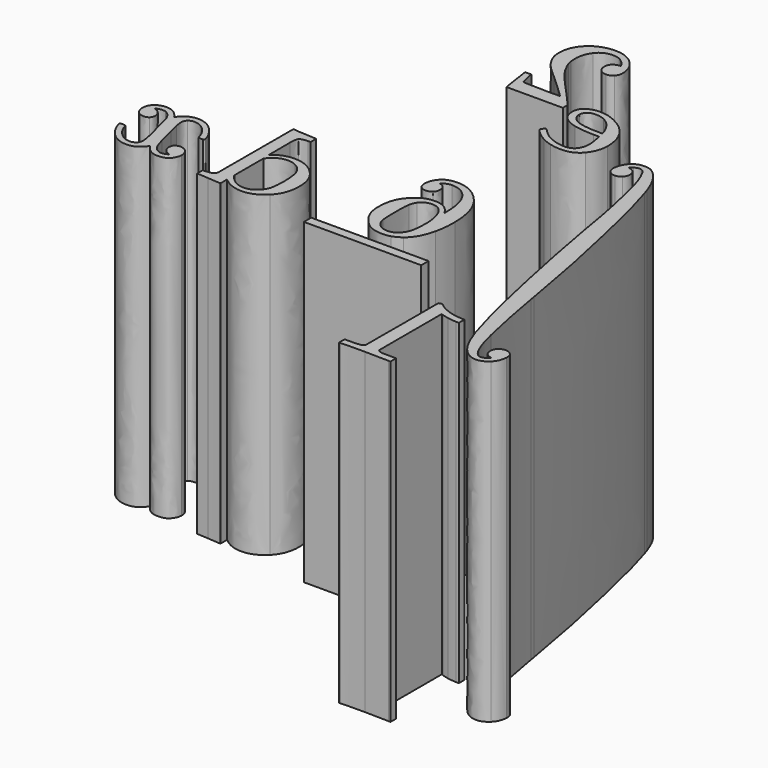
from build123d import *

# Parameters (mm, degrees)
PAD_DEPTH    = 10
PAD001_DEPTH = 10
PAD002_DEPTH = 10
PAD003_DEPTH = 10
PAD004_DEPTH = 10
PAD005_DEPTH = 10
PAD006_DEPTH = 10
PAD007_DEPTH = 10


with BuildPart() as body:
    # Sketch004 → Pad (new body)
    with BuildSketch(Plane.XY):
        with BuildLine():
            add(Edge.make_bspline(
                [(-7.669202, -3.05466), (-7.60695, -3.078603)],
                knots=[0, 0, 13.928388, 13.928388], degree=1))
            add(Edge.make_bspline(
                [(-7.60695, -3.078603), (-7.53991, -3.102546), (-7.415406, -3.126489)],
                knots=[0, 0, 0, 1, 1, 1], degree=2))
            add(Edge.make_bspline(
                [(-7.415406, -3.126489), (-7.290901, -3.150433), (-7.137666, -3.16001)],
                knots=[0, 0, 0, 1, 1, 1], degree=2))
            add(Edge.make_bspline(
                [(-7.137666, -3.16001), (-7.046682, -3.16001)],
                knots=[0, 0, 19, 19], degree=1))
            add(Edge.make_bspline(
                [(-7.046682, -3.16001), (-7.046682, -2.939733)],
                knots=[0, 0, 46, 46], degree=1))
            add(Edge.make_bspline(
                [(-7.046682, -2.939733), (-7.137666, -2.939733)],
                knots=[0, 0, 19, 19], degree=1))
            add(Edge.make_bspline(
                [(-7.137666, -2.939733), (-7.362731, -2.930156), (-7.554276, -2.867904)],
                knots=[0, 0, 0, 1, 1, 1], degree=2))
            add(Edge.make_bspline(
                [(-7.554276, -2.867904), (-7.74582, -2.805652), (-7.822438, -2.752977)],
                knots=[0, 0, 0, 1, 1, 1], degree=2))
            add(Edge.make_bspline(
                [(-7.822438, -2.752977), (-7.899056, -2.700302), (-7.95652, -2.647627)],
                knots=[0, 0, 0, 1, 1, 1], degree=2))
            add(Edge.make_bspline(
                [(-7.95652, -2.647627), (-7.966097, -2.633262), (-8.013983, -2.633262)],
                knots=[0, 0, 0, 1, 1, 1], degree=2))
            add(Edge.make_bspline(
                [(-8.013983, -2.633262), (-8.057081, -2.633262), (-8.09539, -2.661993)],
                knots=[0, 0, 0, 1, 1, 1], degree=2))
            add(Edge.make_bspline(
                [(-8.09539, -2.661993), (-8.09539, -4.093791)],
                knots=[0, 0, 299, 299], degree=1))
            add(Edge.make_bspline(
                [(-8.09539, -4.093791), (-8.100178, -5.530377)],
                knots=[0, 0, 300.001667, 300.001667], degree=1))
            add(Edge.make_bspline(
                [(-8.100178, -5.530377), (-8.133699, -5.563897), (-8.157642, -5.573474)],
                knots=[0, 0, 0, 1, 1, 1], degree=2))
            add(Edge.make_bspline(
                [(-8.157642, -5.573474), (-8.181585, -5.583052), (-8.272569, -5.592629)],
                knots=[0, 0, 0, 1, 1, 1], degree=2))
            add(Edge.make_bspline(
                [(-8.272569, -5.592629), (-8.363552, -5.602206), (-8.569463, -5.602206)],
                knots=[0, 0, 0, 1, 1, 1], degree=2))
            add(Edge.make_bspline(
                [(-8.569463, -5.602206), (-8.693967, -5.602206)],
                knots=[0, 0, 26, 26], degree=1))
            add(Edge.make_bspline(
                [(-8.693967, -5.602206), (-8.693967, -5.822483)],
                knots=[0, 0, 46, 46], degree=1))
            add(Edge.make_bspline(
                [(-8.693967, -5.822483), (-8.641292, -5.822483)],
                knots=[0, 0, 11, 11], degree=1))
            add(Edge.make_bspline(
                [(-8.641292, -5.822483), (-8.540731, -5.808117), (-7.879902, -5.808117)],
                knots=[0, 0, 0, 1, 1, 1], degree=2))
            add(Edge.make_bspline(
                [(-7.879902, -5.808117), (-7.128088, -5.822483)],
                knots=[0, 0, 157.02866, 157.02866], degree=1))
            add(Edge.make_bspline(
                [(-7.128088, -5.822483), (-7.070625, -5.822483)],
                knots=[0, 0, 12, 12], degree=1))
            add(Edge.make_bspline(
                [(-7.070625, -5.822483), (-7.070625, -5.602206)],
                knots=[0, 0, 46, 46], degree=1))
            add(Edge.make_bspline(
                [(-7.070625, -5.602206), (-7.195129, -5.602206)],
                knots=[0, 0, 26, 26], degree=1))
            add(Edge.make_bspline(
                [(-7.195129, -5.602206), (-7.300479, -5.602206), (-7.377097, -5.602206)],
                knots=[0, 0, 0, 1, 1, 1], degree=2))
            add(Edge.make_bspline(
                [(-7.377097, -5.602206), (-7.453714, -5.602206), (-7.496812, -5.597417)],
                knots=[0, 0, 0, 1, 1, 1], degree=2))
            add(Edge.make_bspline(
                [(-7.496812, -5.597417), (-7.53991, -5.592629), (-7.57343, -5.583052)],
                knots=[0, 0, 0, 1, 1, 1], degree=2))
            add(Edge.make_bspline(
                [(-7.57343, -5.583052), (-7.60695, -5.573474), (-7.611739, -5.573474)],
                knots=[0, 0, 0, 1, 1, 1], degree=2))
            add(Edge.make_bspline(
                [(-7.611739, -5.573474), (-7.616528, -5.573474), (-7.640471, -5.549531)],
                knots=[0, 0, 0, 1, 1, 1], degree=2))
            add(Edge.make_bspline(
                [(-7.640471, -5.549531), (-7.664414, -5.525588), (-7.669202, -5.530377)],
                knots=[0, 0, 0, 1, 1, 1], degree=2))
            add(Edge.make_bspline(
                [(-7.669202, -5.530377), (-7.669202, -3.05466)],
                knots=[0, 0, 517, 517], degree=1))
        make_face()
    extrude(amount=PAD_DEPTH)


with BuildPart() as body001:
    # Sketch003 → Pad001 (new body)
    with BuildSketch(Plane.XY):
        with BuildLine():
            add(Edge.make_bspline(
                [(-10.475758, 0.967625), (-10.475758, 1.74817), (-10.863636, 2.203089)],
                knots=[0, 0, 0, 1, 1, 1], degree=2))
            add(Edge.make_bspline(
                [(-10.863636, 2.203089), (-11.251515, 2.658008), (-11.725588, 2.658008)],
                knots=[0, 0, 0, 1, 1, 1], degree=2))
            add(Edge.make_bspline(
                [(-11.725588, 2.658008), (-12.056003, 2.658008), (-12.199662, 2.485618)],
                knots=[0, 0, 0, 1, 1, 1], degree=2))
            add(Edge.make_bspline(
                [(-12.199662, 2.485618), (-12.34332, 2.313227), (-12.34332, 2.102528)],
                knots=[0, 0, 0, 1, 1, 1], degree=2))
            add(Edge.make_bspline(
                [(-12.34332, 2.102528), (-12.34332, 1.982812), (-12.276279, 1.910983)],
                knots=[0, 0, 0, 1, 1, 1], degree=2))
            add(Edge.make_bspline(
                [(-12.276279, 1.910983), (-12.209239, 1.839154), (-12.089523, 1.839154)],
                knots=[0, 0, 0, 1, 1, 1], degree=2))
            add(Edge.make_bspline(
                [(-12.089523, 1.839154), (-11.979385, 1.839154), (-11.907556, 1.906194)],
                knots=[0, 0, 0, 1, 1, 1], degree=2))
            add(Edge.make_bspline(
                [(-11.907556, 1.906194), (-11.835726, 1.973235), (-11.835726, 2.092951)],
                knots=[0, 0, 0, 1, 1, 1], degree=2))
            add(Edge.make_bspline(
                [(-11.835726, 2.092951), (-11.835726, 2.30365), (-12.060792, 2.346748)],
                knots=[0, 0, 0, 1, 1, 1], degree=2))
            add(Edge.make_bspline(
                [(-12.060792, 2.346748), (-11.955442, 2.452097), (-11.763897, 2.466463)],
                knots=[0, 0, 0, 1, 1, 1], degree=2))
            add(Edge.make_bspline(
                [(-11.763897, 2.466463), (-11.423905, 2.466463), (-11.203629, 2.179146)],
                knots=[0, 0, 0, 1, 1, 1], degree=2))
            add(Edge.make_bspline(
                [(-11.203629, 2.179146), (-10.978563, 1.863097), (-10.978563, 1.211845)],
                knots=[0, 0, 0, 1, 1, 1], degree=2))
            add(Edge.make_bspline(
                [(-10.978563, 1.211845), (-10.983352, 1.19269)],
                knots=[0, 0, 4.123106, 4.123106], degree=1))
            add(Edge.make_bspline(
                [(-10.983352, 1.19269), (-11.007295, 1.221422), (-11.021661, 1.254942)],
                knots=[0, 0, 0, 1, 1, 1], degree=2))
            add(Edge.make_bspline(
                [(-11.021661, 1.254942), (-11.217994, 1.542259), (-11.534043, 1.542259)],
                knots=[0, 0, 0, 1, 1, 1], degree=2))
            add(Edge.make_bspline(
                [(-11.534043, 1.542259), (-11.553198, 1.542259)],
                knots=[0, 0, 4, 4], degree=1))
            add(Edge.make_bspline(
                [(-11.553198, 1.542259), (-11.773474, 1.542259), (-11.941076, 1.451276)],
                knots=[0, 0, 0, 1, 1, 1], degree=2))
            add(Edge.make_bspline(
                [(-11.941076, 1.451276), (-12.056003, 1.384235), (-12.17093, 1.259731)],
                knots=[0, 0, 0, 1, 1, 1], degree=2))
            add(Edge.make_bspline(
                [(-12.17093, 1.259731), (-12.285857, 1.135227), (-12.357686, 0.986779)],
                knots=[0, 0, 0, 1, 1, 1], degree=2))
            add(Edge.make_bspline(
                [(-12.357686, 0.986779), (-12.458247, 0.752137), (-12.458247, 0.474397)],
                knots=[0, 0, 0, 1, 1, 1], degree=2))
            add(Edge.make_bspline(
                [(-12.458247, 0.474397), (-12.458247, 0.388202)],
                knots=[0, 0, 18, 18], degree=1))
            add(Edge.make_bspline(
                [(-12.458247, 0.388202), (-12.458247, 0.278064), (-12.434304, 0.182291)],
                knots=[0, 0, 0, 1, 1, 1], degree=2))
            add(Edge.make_bspline(
                [(-12.434304, 0.182291), (-12.381629, -0.100237), (-12.127832, -0.3684)],
                knots=[0, 0, 0, 1, 1, 1], degree=2))
            add(Edge.make_bspline(
                [(-12.127832, -0.3684), (-11.874035, -0.636563), (-11.486157, -0.636563)],
                knots=[0, 0, 0, 1, 1, 1], degree=2))
            add(Edge.make_bspline(
                [(-11.486157, -0.636563), (-11.352076, -0.636563), (-11.227572, -0.598254)],
                knots=[0, 0, 0, 1, 1, 1], degree=2))
            add(Edge.make_bspline(
                [(-11.227572, -0.598254), (-11.103067, -0.559945), (-10.959409, -0.454595)],
                knots=[0, 0, 0, 1, 1, 1], degree=2))
            add(Edge.make_bspline(
                [(-10.959409, -0.454595), (-10.81575, -0.349246), (-10.715189, -0.172067)],
                knots=[0, 0, 0, 1, 1, 1], degree=2))
            add(Edge.make_bspline(
                [(-10.715189, -0.172067), (-10.614628, 0.005112), (-10.542799, 0.292429)],
                knots=[0, 0, 0, 1, 1, 1], degree=2))
            add(Edge.make_bspline(
                [(-10.542799, 0.292429), (-10.47097, 0.579747), (-10.475758, 0.967625)],
                knots=[0, 0, 0, 1, 1, 1], degree=2))
        make_face()
        with BuildLine():
            add(Edge.make_bspline(
                [(-11.505312, 1.369869), (-11.361653, 1.369869), (-11.256303, 1.288462)],
                knots=[0, 0, 0, 1, 1, 1], degree=2))
            add(Edge.make_bspline(
                [(-11.256303, 1.288462), (-11.150954, 1.207056), (-11.09349, 1.072975)],
                knots=[0, 0, 0, 1, 1, 1], degree=2))
            add(Edge.make_bspline(
                [(-11.09349, 1.072975), (-11.036027, 0.938893), (-11.012084, 0.800023)],
                knots=[0, 0, 0, 1, 1, 1], degree=2))
            add(Edge.make_bspline(
                [(-11.012084, 0.800023), (-10.988141, 0.661153), (-10.983352, 0.503129)],
                knots=[0, 0, 0, 1, 1, 1], degree=2))
            add(Edge.make_bspline(
                [(-10.983352, 0.503129), (-10.983352, 0.105673), (-11.040815, -0.066717)],
                knots=[0, 0, 0, 1, 1, 1], degree=2))
            add(Edge.make_bspline(
                [(-11.040815, -0.066717), (-11.098279, -0.239107), (-11.222783, -0.344457)],
                knots=[0, 0, 0, 1, 1, 1], degree=2))
            add(Edge.make_bspline(
                [(-11.222783, -0.344457), (-11.33771, -0.430652), (-11.47658, -0.430652)],
                knots=[0, 0, 0, 1, 1, 1], degree=2))
            add(Edge.make_bspline(
                [(-11.47658, -0.430652), (-11.7208, -0.430652), (-11.850092, -0.248685)],
                knots=[0, 0, 0, 1, 1, 1], degree=2))
            add(Edge.make_bspline(
                [(-11.850092, -0.248685), (-11.912344, -0.162489), (-11.936287, -0.033197)],
                knots=[0, 0, 0, 1, 1, 1], degree=2))
            add(Edge.make_bspline(
                [(-11.936287, -0.033197), (-11.960231, 0.096096), (-11.960231, 0.469608)],
                knots=[0, 0, 0, 1, 1, 1], degree=2))
            add(Edge.make_bspline(
                [(-11.960231, 0.469608), (-11.960231, 0.852698), (-11.936287, 0.981991)],
                knots=[0, 0, 0, 1, 1, 1], degree=2))
            add(Edge.make_bspline(
                [(-11.936287, 0.981991), (-11.912344, 1.111284), (-11.850092, 1.197479)],
                knots=[0, 0, 0, 1, 1, 1], degree=2))
            add(Edge.make_bspline(
                [(-11.850092, 1.197479), (-11.7208, 1.369869), (-11.505312, 1.369869)],
                knots=[0, 0, 0, 1, 1, 1], degree=2))
        make_face(mode=Mode.SUBTRACT)
    extrude(amount=PAD001_DEPTH)


with BuildPart() as body002:
    # Sketch005 → Pad002 (new body)
    with BuildSketch(Plane.XY):
        with BuildLine():
            add(Edge.make_bspline(
                [(-12.489519, 9.442082), (-12.360226, 9.442082), (-12.283609, 9.528277)],
                knots=[0, 0, 0, 1, 1, 1], degree=2))
            add(Edge.make_bspline(
                [(-12.283609, 9.528277), (-12.206991, 9.614472), (-12.206991, 9.738976)],
                knots=[0, 0, 0, 1, 1, 1], degree=2))
            add(Edge.make_bspline(
                [(-12.206991, 9.738976), (-12.206991, 10.078968), (-12.460787, 10.327977)],
                knots=[0, 0, 0, 1, 1, 1], degree=2))
            add(Edge.make_bspline(
                [(-12.460787, 10.327977), (-12.714584, 10.576985), (-13.092885, 10.576985)],
                knots=[0, 0, 0, 1, 1, 1], degree=2))
            add(Edge.make_bspline(
                [(-13.092885, 10.576985), (-13.52865, 10.576985), (-13.820756, 10.308822)],
                knots=[0, 0, 0, 1, 1, 1], degree=2))
            add(Edge.make_bspline(
                [(-13.820756, 10.308822), (-14.112861, 10.040659), (-14.11765, 9.614472)],
                knots=[0, 0, 0, 1, 1, 1], degree=2))
            add(Edge.make_bspline(
                [(-14.11765, 9.614472), (-14.11765, 9.408562), (-14.021878, 9.221805)],
                knots=[0, 0, 0, 1, 1, 1], degree=2))
            add(Edge.make_bspline(
                [(-14.021878, 9.221805), (-13.926105, 9.035049), (-13.792024, 8.896179)],
                knots=[0, 0, 0, 1, 1, 1], degree=2))
            add(Edge.make_bspline(
                [(-13.792024, 8.896179), (-13.657943, 8.757309), (-13.408934, 8.541821)],
                knots=[0, 0, 0, 1, 1, 1], degree=2))
            add(Edge.make_bspline(
                [(-13.408934, 8.541821), (-13.236544, 8.393374), (-12.930072, 8.101268)],
                knots=[0, 0, 0, 1, 1, 1], degree=2))
            add(Edge.make_bspline(
                [(-12.930072, 8.101268), (-12.647544, 7.833105)],
                knots=[0, 0, 81.344945, 81.344945], degree=1))
            add(Edge.make_bspline(
                [(-12.647544, 7.833105), (-13.011479, 7.828317)],
                knots=[0, 0, 76.006579, 76.006579], degree=1))
            add(Edge.make_bspline(
                [(-13.011479, 7.828317), (-13.763292, 7.828317), (-13.811178, 7.85226)],
                knots=[0, 0, 0, 1, 1, 1], degree=2))
            add(Edge.make_bspline(
                [(-13.811178, 7.85226), (-13.844699, 7.861837), (-13.926105, 8.278447)],
                knots=[0, 0, 0, 1, 1, 1], degree=2))
            add(Edge.make_bspline(
                [(-13.926105, 8.278447), (-13.926105, 8.292813)],
                knots=[0, 0, 3, 3], degree=1))
            add(Edge.make_bspline(
                [(-13.926105, 8.292813), (-14.11765, 8.292813)],
                knots=[0, 0, 40, 40], degree=1))
            add(Edge.make_bspline(
                [(-14.11765, 8.292813), (-14.11765, 8.278447)],
                knots=[0, 0, 3, 3], degree=1))
            add(Edge.make_bspline(
                [(-14.11765, 8.278447), (-14.112861, 8.264081), (-14.055398, 7.842683)],
                knots=[0, 0, 0, 1, 1, 1], degree=2))
            add(Edge.make_bspline(
                [(-14.055398, 7.842683), (-13.997935, 7.421284), (-13.983569, 7.40213)],
                knots=[0, 0, 0, 1, 1, 1], degree=2))
            add(Edge.make_bspline(
                [(-13.983569, 7.40213), (-13.983569, 7.387764)],
                knots=[0, 0, 3, 3], degree=1))
            add(Edge.make_bspline(
                [(-13.983569, 7.387764), (-12.206991, 7.387764)],
                knots=[0, 0, 371, 371], degree=1))
            add(Edge.make_bspline(
                [(-12.206991, 7.387764), (-12.206991, 7.478748)],
                knots=[0, 0, 19, 19], degree=1))
            add(Edge.make_bspline(
                [(-12.206991, 7.478748), (-12.206991, 7.536211)],
                knots=[0, 0, 12, 12], degree=1))
            add(Edge.make_bspline(
                [(-12.206991, 7.536211), (-12.206991, 7.569731), (-12.235722, 7.60804)],
                knots=[0, 0, 0, 1, 1, 1], degree=2))
            add(Edge.make_bspline(
                [(-12.235722, 7.60804), (-12.264454, 7.646349), (-12.379381, 7.775642)],
                knots=[0, 0, 0, 1, 1, 1], degree=2))
            add(Edge.make_bspline(
                [(-12.379381, 7.775642), (-12.518251, 7.928878), (-12.618812, 8.043805)],
                knots=[0, 0, 0, 1, 1, 1], degree=2))
            add(Edge.make_bspline(
                [(-12.618812, 8.043805), (-12.66191, 8.091691), (-12.781625, 8.220984)],
                knots=[0, 0, 0, 1, 1, 1], degree=2))
            add(Edge.make_bspline(
                [(-12.781625, 8.220984), (-12.901341, 8.350276), (-12.944438, 8.398163)],
                knots=[0, 0, 0, 1, 1, 1], degree=2))
            add(Edge.make_bspline(
                [(-12.944438, 8.398163), (-12.987536, 8.446049), (-13.083308, 8.556187)],
                knots=[0, 0, 0, 1, 1, 1], degree=2))
            add(Edge.make_bspline(
                [(-13.083308, 8.556187), (-13.179081, 8.666325), (-13.217389, 8.719)],
                knots=[0, 0, 0, 1, 1, 1], degree=2))
            add(Edge.make_bspline(
                [(-13.217389, 8.719), (-13.255698, 8.771675), (-13.327528, 8.862659)],
                knots=[0, 0, 0, 1, 1, 1], degree=2))
            add(Edge.make_bspline(
                [(-13.327528, 8.862659), (-13.399357, 8.953643), (-13.428089, 9.015895)],
                knots=[0, 0, 0, 1, 1, 1], degree=2))
            add(Edge.make_bspline(
                [(-13.428089, 9.015895), (-13.45682, 9.078147), (-13.499918, 9.154765)],
                knots=[0, 0, 0, 1, 1, 1], degree=2))
            add(Edge.make_bspline(
                [(-13.499918, 9.154765), (-13.543016, 9.231383), (-13.56217, 9.308)],
                knots=[0, 0, 0, 1, 1, 1], degree=2))
            add(Edge.make_bspline(
                [(-13.56217, 9.308), (-13.581325, 9.384618), (-13.59569, 9.451659)],
                knots=[0, 0, 0, 1, 1, 1], degree=2))
            add(Edge.make_bspline(
                [(-13.59569, 9.451659), (-13.610056, 9.5187), (-13.610056, 9.609684)],
                knots=[0, 0, 0, 1, 1, 1], degree=2))
            add(Edge.make_bspline(
                [(-13.610056, 9.609684), (-13.610056, 9.911367), (-13.447243, 10.131643)],
                knots=[0, 0, 0, 1, 1, 1], degree=2))
            add(Edge.make_bspline(
                [(-13.447243, 10.131643), (-13.28443, 10.35192), (-12.982747, 10.35192)],
                knots=[0, 0, 0, 1, 1, 1], degree=2))
            add(Edge.make_bspline(
                [(-12.982747, 10.35192), (-12.824723, 10.35192), (-12.705007, 10.270513)],
                knots=[0, 0, 0, 1, 1, 1], degree=2))
            add(Edge.make_bspline(
                [(-12.705007, 10.270513), (-12.585292, 10.189107), (-12.537405, 10.112489)],
                knots=[0, 0, 0, 1, 1, 1], degree=2))
            add(Edge.make_bspline(
                [(-12.537405, 10.112489), (-12.489519, 10.035871), (-12.489519, 10.021505)],
                knots=[0, 0, 0, 1, 1, 1], degree=2))
            add(Edge.make_bspline(
                [(-12.489519, 10.021505), (-12.489519, 10.016716), (-12.513462, 10.016716)],
                knots=[0, 0, 0, 1, 1, 1], degree=2))
            add(Edge.make_bspline(
                [(-12.513462, 10.016716), (-12.599657, 10.016716), (-12.690641, 9.949676)],
                knots=[0, 0, 0, 1, 1, 1], degree=2))
            add(Edge.make_bspline(
                [(-12.690641, 9.949676), (-12.781625, 9.882635), (-12.781625, 9.729399)],
                knots=[0, 0, 0, 1, 1, 1], degree=2))
            add(Edge.make_bspline(
                [(-12.781625, 9.729399), (-12.781625, 9.609684), (-12.705007, 9.528277)],
                knots=[0, 0, 0, 1, 1, 1], degree=2))
            add(Edge.make_bspline(
                [(-12.705007, 9.528277), (-12.628389, 9.44687), (-12.489519, 9.442082)],
                knots=[0, 0, 0, 1, 1, 1], degree=2))
        make_face()
    extrude(amount=PAD002_DEPTH)


with BuildPart() as body003:
    # Sketch002 → Pad003 (new body)
    with BuildSketch(Plane.XY):
        with BuildLine():
            add(Edge.make_bspline(
                [(-9.687858, -1.053496), (-13.384672, -1.053496)],
                knots=[0, 0, 772, 772], degree=1))
            add(Edge.make_bspline(
                [(-13.384672, -1.053496), (-13.384672, -1.340814)],
                knots=[0, 0, 60, 60], degree=1))
            add(Edge.make_bspline(
                [(-13.384672, -1.340814), (-9.687858, -1.340814)],
                knots=[0, 0, 772, 772], degree=1))
            add(Edge.make_bspline(
                [(-9.687858, -1.340814), (-9.687858, -1.053496)],
                knots=[0, 0, 60, 60], degree=1))
        make_face()
    extrude(amount=PAD003_DEPTH)


with BuildPart() as body004:
    # Sketch → Pad004 (new body)
    with BuildSketch(Plane.XY):
        with BuildLine():
            add(Edge.make_bspline(
                [(-10.068999, 6.482865), (-10.068999, 6.755816), (-10.159983, 6.980881)],
                knots=[0, 0, 0, 1, 1, 1], degree=2))
            add(Edge.make_bspline(
                [(-10.159983, 6.980881), (-10.250967, 7.205946), (-10.394626, 7.354393)],
                knots=[0, 0, 0, 1, 1, 1], degree=2))
            add(Edge.make_bspline(
                [(-10.394626, 7.354393), (-10.538284, 7.502841), (-10.715463, 7.603402)],
                knots=[0, 0, 0, 1, 1, 1], degree=2))
            add(Edge.make_bspline(
                [(-10.715463, 7.603402), (-10.892642, 7.703963), (-11.050667, 7.751849)],
                knots=[0, 0, 0, 1, 1, 1], degree=2))
            add(Edge.make_bspline(
                [(-11.050667, 7.751849), (-11.208691, 7.799735), (-11.35235, 7.794946)],
                knots=[0, 0, 0, 1, 1, 1], degree=2))
            add(Edge.make_bspline(
                [(-11.35235, 7.794946), (-11.366716, 7.794946)],
                knots=[0, 0, 3, 3], degree=1))
            add(Edge.make_bspline(
                [(-11.366716, 7.794946), (-11.582203, 7.794946), (-11.740228, 7.689597)],
                knots=[0, 0, 0, 1, 1, 1], degree=2))
            add(Edge.make_bspline(
                [(-11.740228, 7.689597), (-11.898252, 7.584247), (-11.898252, 7.378336)],
                knots=[0, 0, 0, 1, 1, 1], degree=2))
            add(Edge.make_bspline(
                [(-11.898252, 7.378336), (-11.898252, 6.947361), (-11.366716, 6.813279)],
                knots=[0, 0, 0, 1, 1, 1], degree=2))
            add(Edge.make_bspline(
                [(-11.366716, 6.813279), (-11.132073, 6.751027), (-10.72504, 6.746239)],
                knots=[0, 0, 0, 1, 1, 1], degree=2))
            add(Edge.make_bspline(
                [(-10.72504, 6.746239), (-10.547861, 6.746239), (-10.543073, 6.736661)],
                knots=[0, 0, 0, 1, 1, 1], degree=2))
            add(Edge.make_bspline(
                [(-10.543073, 6.736661), (-10.543073, 6.727084), (-10.514341, 6.56906)],
                knots=[0, 0, 0, 1, 1, 1], degree=2))
            add(Edge.make_bspline(
                [(-10.514341, 6.56906), (-10.485609, 6.411035), (-10.480821, 6.29132)],
                knots=[0, 0, 0, 1, 1, 1], degree=2))
            add(Edge.make_bspline(
                [(-10.480821, 6.29132), (-10.480821, 6.066255), (-10.581382, 5.936962)],
                knots=[0, 0, 0, 1, 1, 1], degree=2))
            add(Edge.make_bspline(
                [(-10.581382, 5.936962), (-10.681943, 5.807669), (-10.883065, 5.80288)],
                knots=[0, 0, 0, 1, 1, 1], degree=2))
            add(Edge.make_bspline(
                [(-10.883065, 5.80288), (-11.084187, 5.798092), (-11.328407, 5.893864)],
                knots=[0, 0, 0, 1, 1, 1], degree=2))
            add(Edge.make_bspline(
                [(-11.328407, 5.893864), (-11.572626, 5.989637), (-11.76896, 6.209913)],
                knots=[0, 0, 0, 1, 1, 1], degree=2))
            add(Edge.make_bspline(
                [(-11.76896, 6.209913), (-11.812057, 6.257799), (-11.826423, 6.257799)],
                knots=[0, 0, 0, 1, 1, 1], degree=2))
            add(Edge.make_bspline(
                [(-11.826423, 6.257799), (-11.845578, 6.257799), (-11.888675, 6.214702)],
                knots=[0, 0, 0, 1, 1, 1], degree=2))
            add(Edge.make_bspline(
                [(-11.888675, 6.214702), (-11.931773, 6.171604), (-11.936561, 6.147661)],
                knots=[0, 0, 0, 1, 1, 1], degree=2))
            add(Edge.make_bspline(
                [(-11.936561, 6.147661), (-11.94135, 6.123718), (-11.893464, 6.071043)],
                knots=[0, 0, 0, 1, 1, 1], degree=2))
            add(Edge.make_bspline(
                [(-11.893464, 6.071043), (-11.845578, 6.018368), (-11.749805, 5.94175)],
                knots=[0, 0, 0, 1, 1, 1], degree=2))
            add(Edge.make_bspline(
                [(-11.749805, 5.94175), (-11.654033, 5.865133), (-11.529529, 5.793303)],
                knots=[0, 0, 0, 1, 1, 1], degree=2))
            add(Edge.make_bspline(
                [(-11.529529, 5.793303), (-11.405025, 5.721474), (-11.227846, 5.673588)],
                knots=[0, 0, 0, 1, 1, 1], degree=2))
            add(Edge.make_bspline(
                [(-11.227846, 5.673588), (-11.050667, 5.625701), (-10.86391, 5.625701)],
                knots=[0, 0, 0, 1, 1, 1], degree=2))
            add(Edge.make_bspline(
                [(-10.86391, 5.625701), (-10.485609, 5.625701), (-10.279699, 5.879498)],
                knots=[0, 0, 0, 1, 1, 1], degree=2))
            add(Edge.make_bspline(
                [(-10.279699, 5.879498), (-10.073788, 6.133295), (-10.068999, 6.482865)],
                knots=[0, 0, 0, 1, 1, 1], degree=2))
        make_face()
        with BuildLine():
            add(Edge.make_bspline(
                [(-11.668399, 7.368759), (-11.639667, 7.617768), (-11.342772, 7.617768)],
                knots=[0, 0, 0, 1, 1, 1], degree=2))
            add(Edge.make_bspline(
                [(-11.342772, 7.617768), (-11.184748, 7.617768), (-11.050667, 7.550727)],
                knots=[0, 0, 0, 1, 1, 1], degree=2))
            add(Edge.make_bspline(
                [(-11.050667, 7.550727), (-10.916585, 7.483686), (-10.835179, 7.387914)],
                knots=[0, 0, 0, 1, 1, 1], degree=2))
            add(Edge.make_bspline(
                [(-10.835179, 7.387914), (-10.753772, 7.292141), (-10.696309, 7.19158)],
                knots=[0, 0, 0, 1, 1, 1], degree=2))
            add(Edge.make_bspline(
                [(-10.696309, 7.19158), (-10.638845, 7.091019), (-10.619691, 7.01919)],
                knots=[0, 0, 0, 1, 1, 1], degree=2))
            add(Edge.make_bspline(
                [(-10.619691, 7.01919), (-10.600536, 6.947361), (-10.595748, 6.928206)],
                knots=[0, 0, 0, 1, 1, 1], degree=2))
            add(Edge.make_bspline(
                [(-10.595748, 6.928206), (-10.595748, 6.923418), (-10.69152, 6.923418)],
                knots=[0, 0, 0, 1, 1, 1], degree=2))
            add(Edge.make_bspline(
                [(-10.69152, 6.923418), (-11.232634, 6.923418), (-11.448122, 7.038344)],
                knots=[0, 0, 0, 1, 1, 1], degree=2))
            add(Edge.make_bspline(
                [(-11.448122, 7.038344), (-11.66361, 7.153271), (-11.668399, 7.368759)],
                knots=[0, 0, 0, 1, 1, 1], degree=2))
        make_face(mode=Mode.SUBTRACT)
    extrude(amount=PAD004_DEPTH)


with BuildPart() as body005:
    # Sketch001 → Pad005 (new body)
    with BuildSketch(Plane.XY):
        with BuildLine():
            add(Edge.make_bspline(
                [(-16.288486, 1.404616), (-16.288486, 1.481234), (-16.288486, 1.59616)],
                knots=[0, 0, 0, 1, 1, 1], degree=2))
            add(Edge.make_bspline(
                [(-16.288486, 1.59616), (-16.288486, 1.711087), (-16.293274, 1.754185)],
                knots=[0, 0, 0, 1, 1, 1], degree=2))
            add(Edge.make_bspline(
                [(-16.293274, 1.754185), (-16.293274, 1.969673), (-16.245388, 2.022348)],
                knots=[0, 0, 0, 1, 1, 1], degree=2))
            add(Edge.make_bspline(
                [(-16.245388, 2.022348), (-16.197502, 2.075022), (-16.001169, 2.0846)],
                knots=[0, 0, 0, 1, 1, 1], degree=2))
            add(Edge.make_bspline(
                [(-16.001169, 2.0846), (-15.914974, 2.0846)],
                knots=[0, 0, 18, 18], degree=1))
            add(Edge.make_bspline(
                [(-15.914974, 2.0846), (-15.914974, 2.194738)],
                knots=[0, 0, 23, 23], degree=1))
            add(Edge.make_bspline(
                [(-15.914974, 2.194738), (-15.914974, 2.304876), (-15.924551, 2.304876)],
                knots=[0, 0, 0, 1, 1, 1], degree=2))
            add(Edge.make_bspline(
                [(-15.924551, 2.304876), (-15.972437, 2.309665)],
                knots=[0, 0, 10.049876, 10.049876], degree=1))
            add(Edge.make_bspline(
                [(-15.972437, 2.309665), (-16.020323, 2.314453), (-16.111307, 2.319242)],
                knots=[0, 0, 0, 1, 1, 1], degree=2))
            add(Edge.make_bspline(
                [(-16.111307, 2.319242), (-16.202291, 2.324031), (-16.288486, 2.328819)],
                knots=[0, 0, 0, 1, 1, 1], degree=2))
            add(Edge.make_bspline(
                [(-16.288486, 2.328819), (-16.369892, 2.333608), (-16.465665, 2.338397)],
                knots=[0, 0, 0, 1, 1, 1], degree=2))
            add(Edge.make_bspline(
                [(-16.465665, 2.338397), (-16.561437, 2.343185), (-16.609323, 2.352762)],
                knots=[0, 0, 0, 1, 1, 1], degree=2))
            add(Edge.make_bspline(
                [(-16.609323, 2.352762), (-16.65721, 2.36234), (-16.661998, 2.357551)],
                knots=[0, 0, 0, 1, 1, 1], degree=2))
            add(Edge.make_bspline(
                [(-16.661998, 2.357551), (-16.676364, 2.357551)],
                knots=[0, 0, 3, 3], degree=1))
            add(Edge.make_bspline(
                [(-16.676364, 2.357551), (-16.676364, 0.901811)],
                knots=[0, 0, 304, 304], degree=1))
            add(Edge.make_bspline(
                [(-16.676364, 0.901811), (-16.676364, -0.563507), (-16.681153, -0.577873)],
                knots=[0, 0, 0, 1, 1, 1], degree=2))
            add(Edge.make_bspline(
                [(-16.681153, -0.577873), (-16.695519, -0.673646), (-16.748193, -0.702377)],
                knots=[0, 0, 0, 1, 1, 1], degree=2))
            add(Edge.make_bspline(
                [(-16.748193, -0.702377), (-16.800868, -0.731109), (-16.963681, -0.745475)],
                knots=[0, 0, 0, 1, 1, 1], degree=2))
            add(Edge.make_bspline(
                [(-16.963681, -0.745475), (-17.049876, -0.745475)],
                knots=[0, 0, 18, 18], degree=1))
            add(Edge.make_bspline(
                [(-17.049876, -0.745475), (-17.049876, -0.965751)],
                knots=[0, 0, 46, 46], degree=1))
            add(Edge.make_bspline(
                [(-17.049876, -0.965751), (-17.040299, -0.965751), (-16.685941, -0.989694)],
                knots=[0, 0, 0, 1, 1, 1], degree=2))
            add(Edge.make_bspline(
                [(-16.685941, -0.989694), (-16.331583, -1.013638), (-16.30764, -1.018426)],
                knots=[0, 0, 0, 1, 1, 1], degree=2))
            add(Edge.make_bspline(
                [(-16.30764, -1.018426), (-16.27412, -1.018426)],
                knots=[0, 0, 7, 7], degree=1))
            add(Edge.make_bspline(
                [(-16.27412, -1.018426), (-16.27412, -0.755052)],
                knots=[0, 0, 55, 55], degree=1))
            add(Edge.make_bspline(
                [(-16.27412, -0.755052), (-16.235811, -0.788572)],
                knots=[0, 0, 10.630146, 10.630146], degree=1))
            add(Edge.make_bspline(
                [(-16.235811, -0.788572), (-15.958071, -1.018426), (-15.61329, -1.018426)],
                knots=[0, 0, 0, 1, 1, 1], degree=2))
            add(Edge.make_bspline(
                [(-15.61329, -1.018426), (-15.244567, -1.018426), (-14.947672, -0.72632)],
                knots=[0, 0, 0, 1, 1, 1], degree=2))
            add(Edge.make_bspline(
                [(-14.947672, -0.72632), (-14.650778, -0.434215), (-14.650778, 0.063802)],
                knots=[0, 0, 0, 1, 1, 1], degree=2))
            add(Edge.make_bspline(
                [(-14.650778, 0.063802), (-14.650778, 0.542664), (-14.952461, 0.844347)],
                knots=[0, 0, 0, 1, 1, 1], degree=2))
            add(Edge.make_bspline(
                [(-14.952461, 0.844347), (-15.254144, 1.14603), (-15.656388, 1.150819)],
                knots=[0, 0, 0, 1, 1, 1], degree=2))
            add(Edge.make_bspline(
                [(-15.656388, 1.150819), (-16.015535, 1.150819), (-16.288486, 0.916176)],
                knots=[0, 0, 0, 1, 1, 1], degree=2))
            add(Edge.make_bspline(
                [(-16.288486, 0.916176), (-16.288486, 1.404616)],
                knots=[0, 0, 102, 102], degree=1))
        make_face()
        with BuildLine():
            add(Edge.make_bspline(
                [(-16.27412, 0.671957), (-16.058632, 0.97364), (-15.733006, 0.97364)],
                knots=[0, 0, 0, 1, 1, 1], degree=2))
            add(Edge.make_bspline(
                [(-15.733006, 0.97364), (-15.498364, 0.97364), (-15.316396, 0.801249)],
                knots=[0, 0, 0, 1, 1, 1], degree=2))
            add(Edge.make_bspline(
                [(-15.316396, 0.801249), (-15.187103, 0.667168), (-15.153583, 0.494778)],
                knots=[0, 0, 0, 1, 1, 1], degree=2))
            add(Edge.make_bspline(
                [(-15.153583, 0.494778), (-15.120063, 0.322387), (-15.115274, 0.044648)],
                knots=[0, 0, 0, 1, 1, 1], degree=2))
            add(Edge.make_bspline(
                [(-15.115274, 0.044648), (-15.115274, -0.223515), (-15.148794, -0.391117)],
                knots=[0, 0, 0, 1, 1, 1], degree=2))
            add(Edge.make_bspline(
                [(-15.148794, -0.391117), (-15.182315, -0.558719), (-15.316396, -0.683223)],
                knots=[0, 0, 0, 1, 1, 1], degree=2))
            add(Edge.make_bspline(
                [(-15.316396, -0.683223), (-15.460055, -0.841247), (-15.689908, -0.841247)],
                knots=[0, 0, 0, 1, 1, 1], degree=2))
            add(Edge.make_bspline(
                [(-15.689908, -0.841247), (-16.0299, -0.841247), (-16.27412, -0.472523)],
                knots=[0, 0, 0, 1, 1, 1], degree=2))
            add(Edge.make_bspline(
                [(-16.27412, -0.472523), (-16.27412, 0.671957)],
                knots=[0, 0, 239, 239], degree=1))
        make_face(mode=Mode.SUBTRACT)
    extrude(amount=PAD005_DEPTH)


with BuildPart() as body006:
    # Sketch006 → Pad006 (new body)
    with BuildSketch(Plane.XY):
        with BuildLine():
            add(Edge.make_bspline(
                [(-18.03812, 0.592519), (-18.07164, 0.793641), (-18.296705, 1.057015)],
                knots=[0, 0, 0, 1, 1, 1], degree=2))
            add(Edge.make_bspline(
                [(-18.296705, 1.057015), (-18.521771, 1.320389), (-18.852185, 1.325178)],
                knots=[0, 0, 0, 1, 1, 1], degree=2))
            add(Edge.make_bspline(
                [(-18.852185, 1.325178), (-19.019787, 1.325178), (-19.158657, 1.238983)],
                knots=[0, 0, 0, 1, 1, 1], degree=2))
            add(Edge.make_bspline(
                [(-19.158657, 1.238983), (-19.297527, 1.152788), (-19.364568, 1.023495)],
                knots=[0, 0, 0, 1, 1, 1], degree=2))
            add(Edge.make_bspline(
                [(-19.364568, 1.023495), (-19.56569, 1.325178), (-19.848218, 1.325178)],
                knots=[0, 0, 0, 1, 1, 1], degree=2))
            add(Edge.make_bspline(
                [(-19.848218, 1.325178), (-20.025397, 1.325178), (-20.15469, 1.219828)],
                knots=[0, 0, 0, 1, 1, 1], degree=2))
            add(Edge.make_bspline(
                [(-20.15469, 1.219828), (-20.283983, 1.114479), (-20.288771, 0.9373)],
                knots=[0, 0, 0, 1, 1, 1], degree=2))
            add(Edge.make_bspline(
                [(-20.288771, 0.9373), (-20.288771, 0.79843), (-20.221731, 0.712235)],
                knots=[0, 0, 0, 1, 1, 1], degree=2))
            add(Edge.make_bspline(
                [(-20.221731, 0.712235), (-20.15469, 0.626039), (-20.092438, 0.606885)],
                knots=[0, 0, 0, 1, 1, 1], degree=2))
            add(Edge.make_bspline(
                [(-20.092438, 0.606885), (-20.030186, 0.58773), (-19.9823, 0.58773)],
                knots=[0, 0, 0, 1, 1, 1], degree=2))
            add(Edge.make_bspline(
                [(-19.9823, 0.58773), (-19.891316, 0.58773), (-19.833853, 0.640405)],
                knots=[0, 0, 0, 1, 1, 1], degree=2))
            add(Edge.make_bspline(
                [(-19.833853, 0.640405), (-19.776389, 0.69308), (-19.776389, 0.779275)],
                knots=[0, 0, 0, 1, 1, 1], degree=2))
            add(Edge.make_bspline(
                [(-19.776389, 0.779275), (-19.776389, 0.999552), (-20.01582, 1.080958)],
                knots=[0, 0, 0, 1, 1, 1], degree=2))
            add(Edge.make_bspline(
                [(-20.01582, 1.080958), (-19.963145, 1.14321), (-19.824275, 1.14321)],
                knots=[0, 0, 0, 1, 1, 1], degree=2))
            add(Edge.make_bspline(
                [(-19.824275, 1.14321), (-19.762023, 1.14321), (-19.733292, 1.133633)],
                knots=[0, 0, 0, 1, 1, 1], degree=2))
            add(Edge.make_bspline(
                [(-19.733292, 1.133633), (-19.551324, 1.057015), (-19.465129, 0.817584)],
                knots=[0, 0, 0, 1, 1, 1], degree=2))
            add(Edge.make_bspline(
                [(-19.465129, 0.817584), (-19.177812, -0.240701), (-19.177812, -0.41788)],
                knots=[0, 0, 0, 1, 1, 1], degree=2))
            add(Edge.make_bspline(
                [(-19.177812, -0.41788), (-19.177812, -0.551961), (-19.25443, -0.609425)],
                knots=[0, 0, 0, 1, 1, 1], degree=2))
            add(Edge.make_bspline(
                [(-19.25443, -0.609425), (-19.331047, -0.666888), (-19.422031, -0.666888)],
                knots=[0, 0, 0, 1, 1, 1], degree=2))
            add(Edge.make_bspline(
                [(-19.422031, -0.666888), (-19.59921, -0.666888), (-19.771601, -0.508864)],
                knots=[0, 0, 0, 1, 1, 1], degree=2))
            add(Edge.make_bspline(
                [(-19.771601, -0.508864), (-19.943991, -0.350839), (-20.006243, -0.120985)],
                knots=[0, 0, 0, 1, 1, 1], degree=2))
            add(Edge.make_bspline(
                [(-20.006243, -0.120985), (-20.020609, -0.073099), (-20.034975, -0.068311)],
                knots=[0, 0, 0, 1, 1, 1], degree=2))
            add(Edge.make_bspline(
                [(-20.034975, -0.068311), (-20.04934, -0.063522), (-20.111593, -0.058733)],
                knots=[0, 0, 0, 1, 1, 1], degree=2))
            add(Edge.make_bspline(
                [(-20.111593, -0.058733), (-20.130747, -0.058733)],
                knots=[0, 0, 4, 4], degree=1))
            add(Edge.make_bspline(
                [(-20.130747, -0.058733), (-20.202576, -0.058733), (-20.202576, -0.097042)],
                knots=[0, 0, 0, 1, 1, 1], degree=2))
            add(Edge.make_bspline(
                [(-20.202576, -0.097042), (-20.202576, -0.101831), (-20.192999, -0.149717)],
                knots=[0, 0, 0, 1, 1, 1], degree=2))
            add(Edge.make_bspline(
                [(-20.192999, -0.149717), (-20.116381, -0.422668), (-19.896105, -0.633368)],
                knots=[0, 0, 0, 1, 1, 1], degree=2))
            add(Edge.make_bspline(
                [(-19.896105, -0.633368), (-19.675828, -0.844067), (-19.383722, -0.844067)],
                knots=[0, 0, 0, 1, 1, 1], degree=2))
            add(Edge.make_bspline(
                [(-19.383722, -0.844067), (-19.048519, -0.844067), (-18.876129, -0.542384)],
                knots=[0, 0, 0, 1, 1, 1], degree=2))
            add(Edge.make_bspline(
                [(-18.876129, -0.542384), (-18.679795, -0.839278), (-18.425998, -0.839278)],
                knots=[0, 0, 0, 1, 1, 1], degree=2))
            add(Edge.make_bspline(
                [(-18.425998, -0.839278), (-18.397267, -0.839278)],
                knots=[0, 0, 6, 6], degree=1))
            add(Edge.make_bspline(
                [(-18.397267, -0.839278), (-18.162624, -0.839278), (-18.062063, -0.714774)],
                knots=[0, 0, 0, 1, 1, 1], degree=2))
            add(Edge.make_bspline(
                [(-18.062063, -0.714774), (-17.961502, -0.59027), (-17.956713, -0.4514)],
                knots=[0, 0, 0, 1, 1, 1], degree=2))
            add(Edge.make_bspline(
                [(-17.956713, -0.4514), (-17.956713, -0.298164), (-18.047697, -0.202392)],
                knots=[0, 0, 0, 1, 1, 1], degree=2))
            add(Edge.make_bspline(
                [(-18.047697, -0.202392), (-18.138681, -0.106619), (-18.263185, -0.106619)],
                knots=[0, 0, 0, 1, 1, 1], degree=2))
            add(Edge.make_bspline(
                [(-18.263185, -0.106619), (-18.469096, -0.106619), (-18.469096, -0.307742)],
                knots=[0, 0, 0, 1, 1, 1], degree=2))
            add(Edge.make_bspline(
                [(-18.469096, -0.307742), (-18.469096, -0.403514), (-18.411632, -0.475343)],
                knots=[0, 0, 0, 1, 1, 1], degree=2))
            add(Edge.make_bspline(
                [(-18.411632, -0.475343), (-18.354169, -0.547173), (-18.301494, -0.571116)],
                knots=[0, 0, 0, 1, 1, 1], degree=2))
            add(Edge.make_bspline(
                [(-18.301494, -0.571116), (-18.248819, -0.595059), (-18.239242, -0.595059)],
                knots=[0, 0, 0, 1, 1, 1], degree=2))
            add(Edge.make_bspline(
                [(-18.239242, -0.595059), (-18.224876, -0.599847)],
                knots=[0, 0, 3.162278, 3.162278], degree=1))
            add(Edge.make_bspline(
                [(-18.224876, -0.599847), (-18.224876, -0.604636), (-18.253608, -0.619002)],
                knots=[0, 0, 0, 1, 1, 1], degree=2))
            add(Edge.make_bspline(
                [(-18.253608, -0.619002), (-18.28234, -0.633368), (-18.330226, -0.652522)],
                knots=[0, 0, 0, 1, 1, 1], degree=2))
            add(Edge.make_bspline(
                [(-18.330226, -0.652522), (-18.378112, -0.671677), (-18.42121, -0.666888)],
                knots=[0, 0, 0, 1, 1, 1], degree=2))
            add(Edge.make_bspline(
                [(-18.42121, -0.666888), (-18.5936, -0.666888), (-18.718104, -0.4514)],
                knots=[0, 0, 0, 1, 1, 1], degree=2))
            add(Edge.make_bspline(
                [(-18.718104, -0.4514), (-18.761202, -0.374782), (-18.828242, -0.125774)],
                knots=[0, 0, 0, 1, 1, 1], degree=2))
            add(Edge.make_bspline(
                [(-18.828242, -0.125774), (-18.895283, 0.123234), (-18.962324, 0.391397)],
                knots=[0, 0, 0, 1, 1, 1], degree=2))
            add(Edge.make_bspline(
                [(-18.962324, 0.391397), (-19.029364, 0.65956), (-19.038942, 0.707446)],
                knots=[0, 0, 0, 1, 1, 1], degree=2))
            add(Edge.make_bspline(
                [(-19.038942, 0.707446), (-19.062885, 0.836739), (-19.062885, 0.894202)],
                knots=[0, 0, 0, 1, 1, 1], degree=2))
            add(Edge.make_bspline(
                [(-19.062885, 0.894202), (-19.062885, 1.028284), (-18.991055, 1.085747)],
                knots=[0, 0, 0, 1, 1, 1], degree=2))
            add(Edge.make_bspline(
                [(-18.991055, 1.085747), (-18.919226, 1.14321), (-18.828242, 1.14321)],
                knots=[0, 0, 0, 1, 1, 1], degree=2))
            add(Edge.make_bspline(
                [(-18.828242, 1.14321), (-18.636698, 1.14321), (-18.469096, 0.989975)],
                knots=[0, 0, 0, 1, 1, 1], degree=2))
            add(Edge.make_bspline(
                [(-18.469096, 0.989975), (-18.301494, 0.836739), (-18.234453, 0.597308)],
                knots=[0, 0, 0, 1, 1, 1], degree=2))
            add(Edge.make_bspline(
                [(-18.234453, 0.597308), (-18.224876, 0.55421), (-18.21051, 0.549421)],
                knots=[0, 0, 0, 1, 1, 1], degree=2))
            add(Edge.make_bspline(
                [(-18.21051, 0.549421), (-18.196144, 0.544633), (-18.133892, 0.539844)],
                knots=[0, 0, 0, 1, 1, 1], degree=2))
            add(Edge.make_bspline(
                [(-18.133892, 0.539844), (-18.066852, 0.539844)],
                knots=[0, 0, 14, 14], degree=1))
            add(Edge.make_bspline(
                [(-18.066852, 0.539844), (-18.03812, 0.568576), (-18.03812, 0.592519)],
                knots=[0, 0, 0, 1, 1, 1], degree=2))
        make_face()
    extrude(amount=PAD006_DEPTH)


with BuildPart() as body007:
    # Sketch007 → Pad007 (new body)
    with BuildSketch(Plane.XY):
        with BuildLine():
            add(Edge.make_bspline(
                [(-5.252546, -4.118659), (-5.338741, -4.243163), (-5.496765, -4.243163)],
                knots=[0, 0, 0, 1, 1, 1], degree=2))
            add(Edge.make_bspline(
                [(-5.496765, -4.243163), (-5.506343, -4.243163)],
                knots=[0, 0, 2, 2], degree=1))
            add(Edge.make_bspline(
                [(-5.506343, -4.243163), (-5.640424, -4.243163), (-5.774505, -3.955846)],
                knots=[0, 0, 0, 1, 1, 1], degree=2))
            add(Edge.make_bspline(
                [(-5.774505, -3.955846), (-5.908587, -3.668529), (-6.023514, -3.170512)],
                knots=[0, 0, 0, 1, 1, 1], degree=2))
            add(Edge.make_bspline(
                [(-6.023514, -3.170512), (-6.13844, -2.672496), (-6.239001, -2.169691)],
                knots=[0, 0, 0, 1, 1, 1], degree=2))
            add(Edge.make_bspline(
                [(-6.239001, -2.169691), (-6.339562, -1.666886), (-6.440123, -1.082674)],
                knots=[0, 0, 0, 1, 1, 1], degree=2))
            add(Edge.make_bspline(
                [(-6.440123, -1.082674), (-6.454489, -0.982113), (-6.464067, -0.934227)],
                knots=[0, 0, 0, 1, 1, 1], degree=2))
            add(Edge.make_bspline(
                [(-6.464067, -0.934227), (-6.808847, 1.100937), (-7.211091, 2.839206)],
                knots=[0, 0, 0, 1, 1, 1], degree=2))
            add(Edge.make_bspline(
                [(-7.211091, 2.839206), (-7.613335, 4.577475), (-7.795303, 5.099435)],
                knots=[0, 0, 0, 1, 1, 1], degree=2))
            add(Edge.make_bspline(
                [(-7.795303, 5.099435), (-7.824035, 5.18563), (-7.843189, 5.243093)],
                knots=[0, 0, 0, 1, 1, 1], degree=2))
            add(Edge.make_bspline(
                [(-7.843189, 5.243093), (-7.862344, 5.300557), (-7.924596, 5.453793)],
                knots=[0, 0, 0, 1, 1, 1], degree=2))
            add(Edge.make_bspline(
                [(-7.924596, 5.453793), (-7.986848, 5.607029), (-8.053888, 5.721955)],
                knots=[0, 0, 0, 1, 1, 1], degree=2))
            add(Edge.make_bspline(
                [(-8.053888, 5.721955), (-8.120929, 5.836882), (-8.216702, 5.956598)],
                knots=[0, 0, 0, 1, 1, 1], degree=2))
            add(Edge.make_bspline(
                [(-8.216702, 5.956598), (-8.312474, 6.076313), (-8.427401, 6.148143)],
                knots=[0, 0, 0, 1, 1, 1], degree=2))
            add(Edge.make_bspline(
                [(-8.427401, 6.148143), (-8.542328, 6.219972), (-8.67162, 6.215183)],
                knots=[0, 0, 0, 1, 1, 1], degree=2))
            add(Edge.make_bspline(
                [(-8.67162, 6.215183), (-8.939783, 6.215183), (-9.073865, 6.047582)],
                knots=[0, 0, 0, 1, 1, 1], degree=2))
            add(Edge.make_bspline(
                [(-9.073865, 6.047582), (-9.207946, 5.87998), (-9.2271, 5.664492)],
                knots=[0, 0, 0, 1, 1, 1], degree=2))
            add(Edge.make_bspline(
                [(-9.2271, 5.664492), (-9.2271, 5.544776), (-9.169637, 5.472947)],
                knots=[0, 0, 0, 1, 1, 1], degree=2))
            add(Edge.make_bspline(
                [(-9.169637, 5.472947), (-9.112174, 5.401118), (-9.059499, 5.381963)],
                knots=[0, 0, 0, 1, 1, 1], degree=2))
            add(Edge.make_bspline(
                [(-9.059499, 5.381963), (-9.006824, 5.362809), (-8.954149, 5.367598)],
                knots=[0, 0, 0, 1, 1, 1], degree=2))
            add(Edge.make_bspline(
                [(-8.954149, 5.367598), (-8.853588, 5.367598), (-8.772182, 5.439427)],
                knots=[0, 0, 0, 1, 1, 1], degree=2))
            add(Edge.make_bspline(
                [(-8.772182, 5.439427), (-8.690775, 5.511256), (-8.690775, 5.63576)],
                knots=[0, 0, 0, 1, 1, 1], degree=2))
            add(Edge.make_bspline(
                [(-8.690775, 5.63576), (-8.690775, 5.865614), (-8.944572, 5.908712)],
                knots=[0, 0, 0, 1, 1, 1], degree=2))
            add(Edge.make_bspline(
                [(-8.944572, 5.908712), (-8.930206, 5.927866)],
                knots=[0, 0, 5, 5], degree=1))
            add(Edge.make_bspline(
                [(-8.930206, 5.927866), (-8.91584, 5.942232), (-8.891897, 5.961386)],
                knots=[0, 0, 0, 1, 1, 1], degree=2))
            add(Edge.make_bspline(
                [(-8.891897, 5.961386), (-8.867954, 5.980541), (-8.853588, 5.990118)],
                knots=[0, 0, 0, 1, 1, 1], degree=2))
            add(Edge.make_bspline(
                [(-8.853588, 5.990118), (-8.781759, 6.038004), (-8.695564, 6.038004)],
                knots=[0, 0, 0, 1, 1, 1], degree=2))
            add(Edge.make_bspline(
                [(-8.695564, 6.038004), (-8.628523, 6.038004), (-8.571059, 5.980541)],
                knots=[0, 0, 0, 1, 1, 1], degree=2))
            add(Edge.make_bspline(
                [(-8.571059, 5.980541), (-8.513596, 5.923077), (-8.417824, 5.712378)],
                knots=[0, 0, 0, 1, 1, 1], degree=2))
            add(Edge.make_bspline(
                [(-8.417824, 5.712378), (-8.322051, 5.501679), (-8.231067, 5.156898)],
                knots=[0, 0, 0, 1, 1, 1], degree=2))
            add(Edge.make_bspline(
                [(-8.231067, 5.156898), (-8.140084, 4.812118), (-8.006002, 4.184808)],
                knots=[0, 0, 0, 1, 1, 1], degree=2))
            add(Edge.make_bspline(
                [(-8.006002, 4.184808), (-7.871921, 3.557499), (-7.73784, 2.709913)],
                knots=[0, 0, 0, 1, 1, 1], degree=2))
            add(Edge.make_bspline(
                [(-7.73784, 2.709913), (-7.455311, 1.105726), (-7.148839, -0.321283)],
                knots=[0, 0, 0, 1, 1, 1], degree=2))
            add(Edge.make_bspline(
                [(-7.148839, -0.321283), (-6.842368, -1.748292), (-6.669977, -2.389967)],
                knots=[0, 0, 0, 1, 1, 1], degree=2))
            add(Edge.make_bspline(
                [(-6.669977, -2.389967), (-6.497587, -3.031642), (-6.406603, -3.309382)],
                knots=[0, 0, 0, 1, 1, 1], degree=2))
            add(Edge.make_bspline(
                [(-6.406603, -3.309382), (-6.037879, -4.425131), (-5.496765, -4.425131)],
                knots=[0, 0, 0, 1, 1, 1], degree=2))
            add(Edge.make_bspline(
                [(-5.496765, -4.425131), (-5.30522, -4.425131), (-5.147196, -4.276684)],
                knots=[0, 0, 0, 1, 1, 1], degree=2))
            add(Edge.make_bspline(
                [(-5.147196, -4.276684), (-4.989172, -4.128236), (-4.970017, -3.869651)],
                knots=[0, 0, 0, 1, 1, 1], degree=2))
            add(Edge.make_bspline(
                [(-4.970017, -3.869651), (-4.970017, -3.702049), (-5.061001, -3.639797)],
                knots=[0, 0, 0, 1, 1, 1], degree=2))
            add(Edge.make_bspline(
                [(-5.061001, -3.639797), (-5.151985, -3.577545), (-5.242968, -3.577545)],
                knots=[0, 0, 0, 1, 1, 1], degree=2))
            add(Edge.make_bspline(
                [(-5.242968, -3.577545), (-5.343529, -3.577545), (-5.424936, -3.649374)],
                knots=[0, 0, 0, 1, 1, 1], degree=2))
            add(Edge.make_bspline(
                [(-5.424936, -3.649374), (-5.506343, -3.721204), (-5.506343, -3.845708)],
                knots=[0, 0, 0, 1, 1, 1], degree=2))
            add(Edge.make_bspline(
                [(-5.506343, -3.845708), (-5.506343, -4.075562), (-5.252546, -4.118659)],
                knots=[0, 0, 0, 1, 1, 1], degree=2))
        make_face()
    extrude(amount=PAD007_DEPTH)


solid = Compound([body.part, body001.part, body002.part, body003.part, body004.part, body005.part, body006.part, body007.part])
